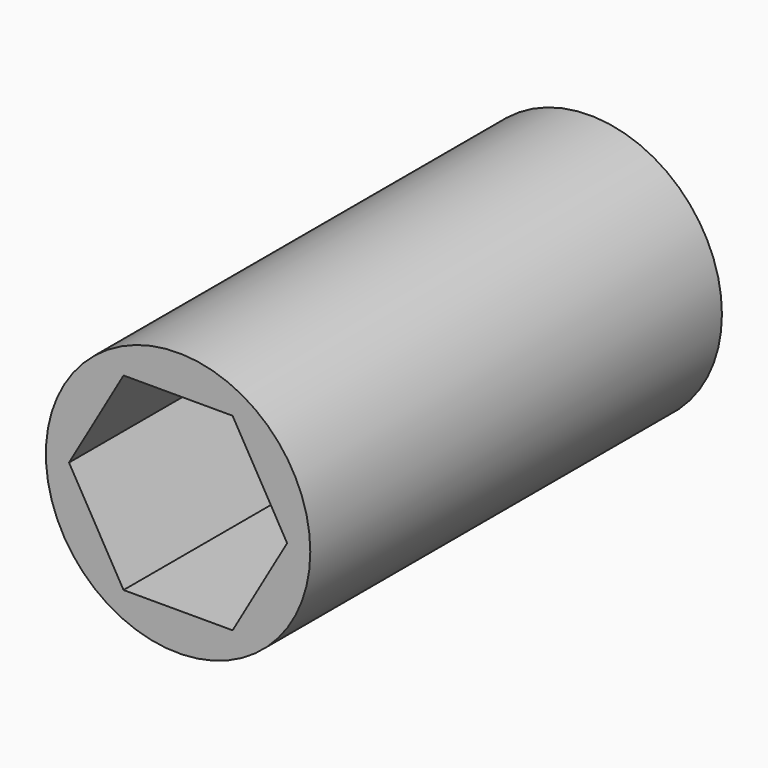
from build123d import *

# Parameters (mm, degrees)
F3_DEPTH = 3


with BuildPart() as f1:
    # F0 (on Top) → F1 (revolve)
    with BuildSketch(Plane.XY):
        Polygon((0, 3.142984), (0, -5.857016), (2.1, -5.857016), (2.1, 2.31488), align=None)
    revolve(axis=Axis((0, 0.078355, 0), (0, -1, 0)))

    # F2 (on face) → F3 (cut)
    with BuildSketch(Plane.XZ.offset(5.857016)):
        Polygon((-0.866025, -1.5), (0.866025, -1.5), (1.732051, 0), (0.866025, 1.5), (-0.866025, 1.5), (-1.732051, 0), align=None)
    extrude(amount=-F3_DEPTH, mode=Mode.SUBTRACT)


solid = f1.part
